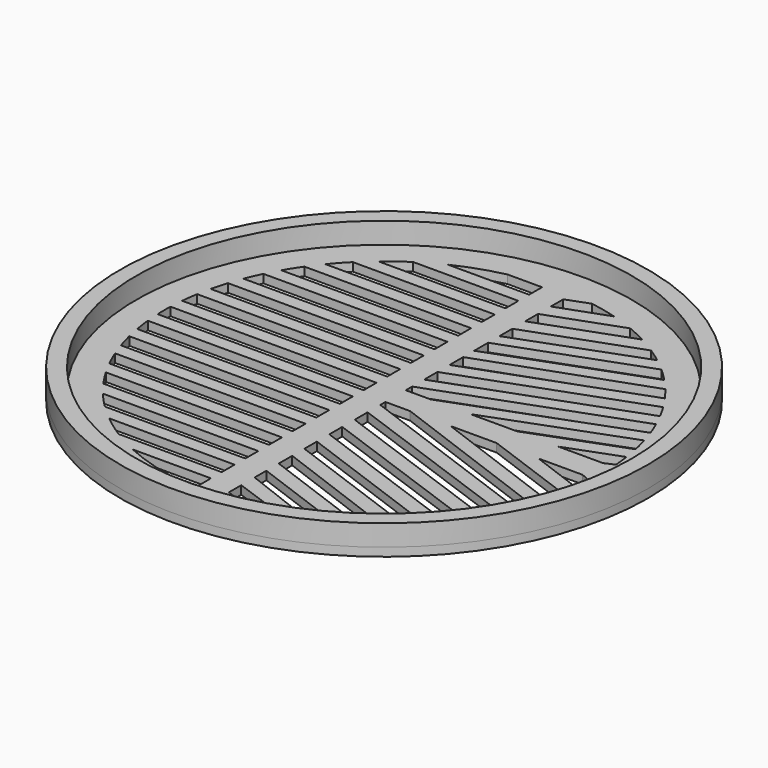
from build123d import *

# Parameters (mm, degrees)
F0_R     = 62.5
F0_R_2   = 58.65
F1_DEPTH = 2
F2_DEPTH = 5


with BuildPart() as f1:
    # F0 (on Top) → F1 (new body)
    with BuildSketch(Plane.XY):
        Circle(F0_R)
        Circle(F0_R_2, mode=Mode.SUBTRACT)
        Circle(F0_R_2)
        with BuildLine():
            Line((-3.191882, -47.253954), (-3.191882, -51.070154))
            Line((-3.191882, -51.070154), (-9.78976, -51.070154))
            ThreePointArc((-9.78976, -51.070154), (-15.862066, -49.52166), (-21.704005, -47.253954))
            Line((-21.704005, -47.253954), (-3.191882, -47.253954))
        make_face(mode=Mode.SUBTRACT)
        with BuildLine():
            Line((-32.918372, -40.253954), (-3.191882, -40.253954))
            Line((-3.191882, -40.253954), (-3.191882, -44.070154))
            Line((-3.191882, -44.070154), (-27.601115, -44.070154))
            ThreePointArc((-27.601115, -44.070154), (-30.319844, -42.245794), (-32.918372, -40.253954))
        make_face(mode=Mode.SUBTRACT)
        with BuildLine():
            Line((-39.977175, -33.253954), (-3.191882, -33.253954))
            Line((-3.191882, -33.253954), (-3.191882, -37.070154))
            Line((-3.191882, -37.070154), (-36.466474, -37.070154))
            ThreePointArc((-36.466474, -37.070154), (-38.269423, -35.205842), (-39.977175, -33.253954))
        make_face(mode=Mode.SUBTRACT)
        with BuildLine():
            Line((-44.885743, -26.253954), (-3.191882, -26.253954))
            Line((-3.191882, -26.253954), (-3.191882, -30.070154))
            Line((-3.191882, -30.070154), (-42.423883, -30.070154))
            ThreePointArc((-42.423883, -30.070154), (-43.696493, -28.188942), (-44.885743, -26.253954))
        make_face(mode=Mode.SUBTRACT)
        with BuildLine():
            Line((-48.304091, -19.253954), (-3.191882, -19.253954))
            Line((-3.191882, -19.253954), (-3.191882, -23.070154))
            Line((-3.191882, -23.070154), (-46.602232, -23.070154))
            ThreePointArc((-46.602232, -23.070154), (-47.491509, -21.179155), (-48.304091, -19.253954))
        make_face(mode=Mode.SUBTRACT)
        with BuildLine():
            Line((-50.535538, -12.253954), (-3.191882, -12.253954))
            Line((-3.191882, -12.253954), (-3.191882, -16.070154))
            Line((-3.191882, -16.070154), (-49.454526, -16.070154))
            ThreePointArc((-49.454526, -16.070154), (-50.031431, -14.172365), (-50.535538, -12.253954))
        make_face(mode=Mode.SUBTRACT)
        with BuildLine():
            Line((-51.733896, -5.253954), (-3.191882, -5.253954))
            Line((-3.191882, -5.253954), (-3.191882, -9.070154))
            Line((-3.191882, -9.070154), (-51.202855, -9.070154))
            ThreePointArc((-51.202855, -9.070154), (-51.503733, -7.166974), (-51.733896, -5.253954))
        make_face(mode=Mode.SUBTRACT)
        with BuildLine():
            Line((-51.970678, 1.746046), (-3.191882, 1.746046))
            Line((-3.191882, 1.746046), (-3.191882, -2.070154))
            Line((-3.191882, -2.070154), (-51.958777, -2.070154))
            ThreePointArc((-51.958777, -2.070154), (-51.999747, -0.162163), (-51.970678, 1.746046))
        make_face(mode=Mode.SUBTRACT)
        with BuildLine():
            Line((7.873907, -51.400405), (2.896511, -49.572833))
            Line((2.896511, -49.572833), (2.896511, -45.902099))
            Line((2.896511, -45.902099), (14.289776, -49.998023))
            ThreePointArc((14.289776, -49.998023), (11.104003, -50.800602), (7.873907, -51.400405))
        make_face(mode=Mode.SUBTRACT)
        with BuildLine():
            Line((19.31125, -48.281214), (2.896511, -41.941576))
            Line((2.896511, -41.941576), (2.896511, -38.46404))
            Line((2.896511, -38.46404), (23.862975, -46.201281))
            ThreePointArc((23.862975, -46.201281), (21.612149, -47.296036), (19.31125, -48.281214))
        make_face(mode=Mode.SUBTRACT)
        with BuildLine():
            Line((27.758943, -43.970912), (2.896511, -34.795944))
            Line((2.896511, -34.795944), (2.896511, -30.815715))
            Line((2.896511, -30.815715), (31.400508, -41.448861))
            ThreePointArc((31.400508, -41.448861), (29.606593, -42.74868), (27.758943, -43.970912))
        make_face(mode=Mode.SUBTRACT)
        with BuildLine():
            ThreePointArc((37.372623, -36.156424), (36.007063, -37.516548), (34.592037, -38.825133))
            Line((34.592037, -38.825133), (2.896511, -27.206514))
            Line((2.896511, -27.206514), (2.896511, -23.518527))
            Line((2.896511, -23.518527), (37.372623, -36.156424))
        make_face(mode=Mode.SUBTRACT)
        with BuildLine():
            Line((39.978156, -33.252775), (2.896511, -19.830042))
            Line((2.896511, -19.830042), (2.896511, -16.004948))
            Line((2.896511, -16.004948), (42.286384, -30.263208))
            ThreePointArc((42.286384, -30.263208), (41.159422, -31.778955), (39.978156, -33.252775))
        make_face(mode=Mode.SUBTRACT)
        with BuildLine():
            Line((44.263286, -27.290319), (2.896511, -12.316464))
            Line((2.896511, -12.316464), (2.896511, -8.503364))
            Line((2.896511, -8.503364), (46.063064, -24.128698))
            ThreePointArc((46.063064, -24.128698), (45.190833, -25.725253), (44.263286, -27.290319))
        make_face(mode=Mode.SUBTRACT)
        with BuildLine():
            Line((2.896511, -4.746575), (2.896511, -3.21917))
            Line((2.896511, -3.21917), (8.751221, -3.21917))
            Line((8.751221, -3.21917), (48.754682, -18.082614))
            ThreePointArc((48.754682, -18.082614), (48.166824, -19.594823), (47.532074, -21.087957))
            Line((47.532074, -21.087957), (2.896511, -4.746575))
        make_face(mode=Mode.SUBTRACT)
        with BuildLine():
            Line((49.812785, -14.922684), (18.313957, -3.21917))
            Line((18.313957, -3.21917), (29.242799, -3.21917))
            Line((29.242799, -3.21917), (50.799583, -11.10866))
            ThreePointArc((50.799583, -11.10866), (50.342317, -13.025021), (49.812785, -14.922684))
        make_face(mode=Mode.SUBTRACT)
        with BuildLine():
            Line((51.415095, -7.777406), (39.14706, -3.21917))
            Line((39.14706, -3.21917), (49.597766, -3.21917))
            Line((49.597766, -3.21917), (51.828544, -4.219248))
            ThreePointArc((51.828544, -4.219248), (51.652467, -6.001889), (51.415095, -7.777406))
        make_face(mode=Mode.SUBTRACT)
        with BuildLine():
            Line((-51.259211, 8.746046), (-3.191882, 8.746046))
            Line((-3.191882, 8.746046), (-3.191882, 4.929846))
            Line((-3.191882, 4.929846), (-51.765786, 4.929846))
            ThreePointArc((-51.765786, 4.929846), (-51.547826, 6.842636), (-51.259211, 8.746046))
        make_face(mode=Mode.SUBTRACT)
        with BuildLine():
            Line((-49.558673, 15.746046), (-3.191882, 15.746046))
            Line((-3.191882, 15.746046), (-3.191882, 11.929846))
            Line((-3.191882, 11.929846), (-50.61303, 11.929846))
            ThreePointArc((-50.61303, 11.929846), (-50.122184, 13.847984), (-49.558673, 15.746046))
        make_face(mode=Mode.SUBTRACT)
        with BuildLine():
            Line((-46.761281, 22.746046), (-3.191882, 22.746046))
            Line((-3.191882, 22.746046), (-3.191882, 18.929846))
            Line((-3.191882, 18.929846), (-48.432024, 18.929846))
            ThreePointArc((-48.432024, 18.929846), (-47.634884, 20.854684), (-46.761281, 22.746046))
        make_face(mode=Mode.SUBTRACT)
        with BuildLine():
            Line((-42.651761, 29.746046), (-3.191882, 29.746046))
            Line((-3.191882, 29.746046), (-3.191882, 25.929846))
            Line((-3.191882, 25.929846), (-45.073751, 25.929846))
            ThreePointArc((-45.073751, 25.929846), (-43.904239, 27.864274), (-42.651761, 29.746046))
        make_face(mode=Mode.SUBTRACT)
        with BuildLine():
            Line((-36.793044, 36.746046), (-3.191882, 36.746046))
            Line((-3.191882, 36.746046), (-3.191882, 32.929846))
            Line((-3.191882, 32.929846), (-40.244568, 32.929846))
            ThreePointArc((-40.244568, 32.929846), (-38.566038, 34.880664), (-36.793044, 36.746046))
        make_face(mode=Mode.SUBTRACT)
        with BuildLine():
            Line((-28.111981, 43.746046), (-3.191882, 43.746046))
            Line((-3.191882, 43.746046), (-3.191882, 39.929846))
            Line((-3.191882, 39.929846), (-33.31077, 39.929846))
            ThreePointArc((-33.31077, 39.929846), (-30.770593, 41.918619), (-28.111981, 43.746046))
        make_face(mode=Mode.SUBTRACT)
        with BuildLine():
            ThreePointArc((-22.396194, 46.929846), (-16.981001, 49.149218), (-11.350719, 50.746046))
            Line((-11.350719, 50.746046), (-3.191882, 50.746046))
            Line((-3.191882, 50.746046), (-3.191882, 46.929846))
            Line((-3.191882, 46.929846), (-22.396194, 46.929846))
        make_face(mode=Mode.SUBTRACT)
        with BuildLine():
            Line((8.782855, 2.79247), (2.896511, 2.79247))
            Line((2.896511, 2.79247), (2.896511, 4.687412))
            Line((2.896511, 4.687412), (47.540674, 21.068563))
            ThreePointArc((47.540674, 21.068563), (48.236133, 19.423579), (48.874694, 17.755684))
            Line((48.874694, 17.755684), (8.782855, 2.79247))
        make_face(mode=Mode.SUBTRACT)
        with BuildLine():
            Line((46.099099, 24.059782), (2.896511, 8.247841))
            Line((2.896511, 8.247841), (2.896511, 12.165699))
            Line((2.896511, 12.165699), (44.300966, 27.22911))
            ThreePointArc((44.300966, 27.22911), (45.227802, 25.660202), (46.099099, 24.059782))
        make_face(mode=Mode.SUBTRACT)
        with BuildLine():
            Line((42.353825, 30.16875), (2.896511, 15.764672))
            Line((2.896511, 15.764672), (2.896511, 19.787056))
            Line((2.896511, 19.787056), (40.094616, 33.11226))
            ThreePointArc((40.094616, 33.11226), (41.250484, 31.660663), (42.353825, 30.16875))
        make_face(mode=Mode.SUBTRACT)
        with BuildLine():
            Line((37.661768, 35.855142), (2.896511, 23.033189))
            Line((2.896511, 23.033189), (2.896511, 27.158916))
            Line((2.896511, 27.158916), (34.637542, 38.784542))
            ThreePointArc((34.637542, 38.784542), (36.179316, 37.350463), (37.661768, 35.855142))
        make_face(mode=Mode.SUBTRACT)
        with BuildLine():
            ThreePointArc((51.467824, 7.420449), (51.695994, 5.614641), (51.860825, 3.801954))
            Line((51.860825, 3.801954), (49.609106, 2.79247))
            Line((49.609106, 2.79247), (39.046496, 2.79247))
            Line((39.046496, 2.79247), (51.467824, 7.420449))
        make_face(mode=Mode.SUBTRACT)
        with BuildLine():
            Line((50.851188, 10.869989), (29.255319, 2.79247))
            Line((29.255319, 2.79247), (18.217992, 2.79247))
            Line((18.217992, 2.79247), (49.896269, 14.64112))
            ThreePointArc((49.896269, 14.64112), (50.409006, 12.764487), (50.851188, 10.869989))
        make_face(mode=Mode.SUBTRACT)
        with BuildLine():
            Line((24.35126, 45.945796), (2.896511, 38.12946))
            Line((2.896511, 38.12946), (2.896511, 41.930046))
            Line((2.896511, 41.930046), (19.827624, 48.071461))
            ThreePointArc((19.827624, 48.071461), (22.114996, 47.06301), (24.35126, 45.945796))
        make_face(mode=Mode.SUBTRACT)
        with BuildLine():
            Line((31.694718, 41.224324), (2.896511, 30.533878))
            Line((2.896511, 30.533878), (2.896511, 34.331668))
            Line((2.896511, 34.331668), (28.38323, 43.570543))
            ThreePointArc((28.38323, 43.570543), (30.061872, 42.429752), (31.694718, 41.224324))
        make_face(mode=Mode.SUBTRACT)
        with BuildLine():
            Line((14.515265, 49.933026), (2.896511, 45.727838))
            Line((2.896511, 45.727838), (2.896511, 49.406949))
            Line((2.896511, 49.406949), (8.121136, 51.361923))
            ThreePointArc((8.121136, 51.361923), (11.340727, 50.74828), (14.515265, 49.933026))
        make_face(mode=Mode.SUBTRACT)
    extrude(amount=-F1_DEPTH)

    # F0 (on Top) → F2 (join)
    with BuildSketch(Plane.XY):
        Circle(F0_R)
        Circle(F0_R_2, mode=Mode.SUBTRACT)
    extrude(amount=F2_DEPTH)


solid = f1.part
